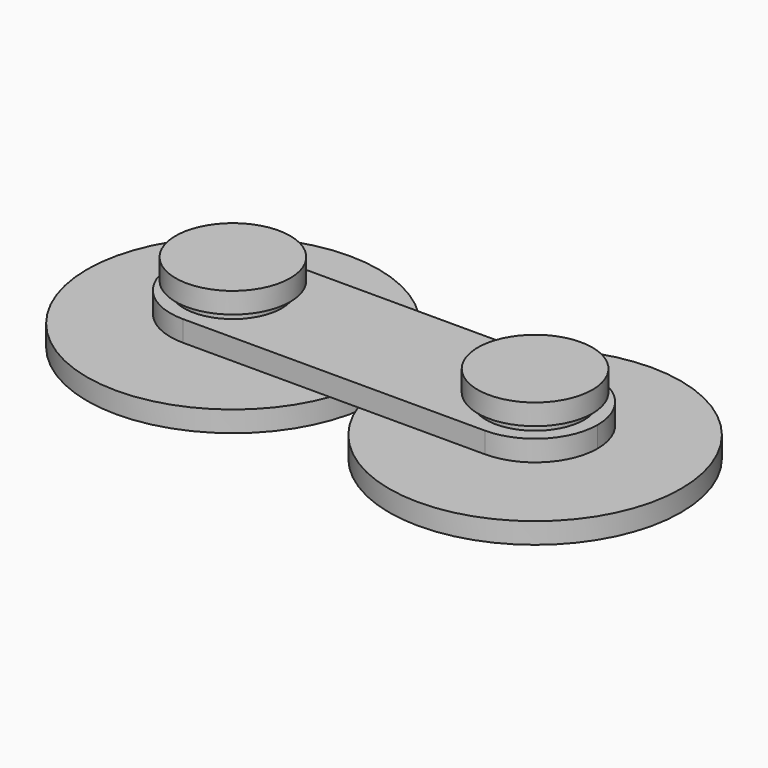
from build123d import *

# Parameters (mm, degrees)
F0_R     = 7
F0_R_2   = 2
F1_DEPTH = 1
F2_DEPTH = 3.8
F4_R     = 2.35
F5_DEPTH = 1
F6_R     = 2.75
F7_DEPTH = 1


with BuildPart() as f1:
    # F0 (on Top) → F1 (new body)
    with BuildSketch(Plane.XY):
        with Locations((-7.25, 0)):
            Circle(F0_R)
        with Locations((-7.25, 0)):
            Circle(F0_R_2, mode=Mode.SUBTRACT)
    extrude(amount=F1_DEPTH)

    # F0 (on Top) → F2 (join)
    with BuildSketch(Plane.XY):
        with Locations((-7.25, 0)):
            Circle(F0_R_2)
    extrude(amount=F2_DEPTH)

    # F6 (on face) → F7 (join)
    with BuildSketch(Plane.XY.offset(3.8)):
        with Locations((-7.25, 0)):
            Circle(F6_R)
    extrude(amount=-F7_DEPTH)


with BuildPart() as f1b:
    # F0 (on Top) → F1, piece 2 (new body)
    with BuildSketch(Plane.XY):
        with Locations((7.25, 0)):
            Circle(F0_R)
        with Locations((7.25, 0)):
            Circle(F0_R_2, mode=Mode.SUBTRACT)
    extrude(amount=F1_DEPTH)

    # F0 (on Top) → F2, piece 2 (join)
    with BuildSketch(Plane.XY):
        with Locations((7.25, 0)):
            Circle(F0_R_2)
    extrude(amount=F2_DEPTH)

    # F6 (on face) → F7, piece 2 (join)
    with BuildSketch(Plane.XY.offset(3.8)):
        with Locations((7.25, 0)):
            Circle(F6_R)
    extrude(amount=-F7_DEPTH)


with BuildPart() as f5:
    # F4 (on offset) → F5 (new body)
    with BuildSketch(Plane.XY.offset(1.4)):
        with BuildLine():
            ThreePointArc((-7.25, -3), (-5.1286796564, -2.1213203436), (-4.25, 0))
            ThreePointArc((-4.25, 0), (-5.1286796564, 2.1213203436), (-7.25, 3))
            ThreePointArc((-7.25, 3), (-10.25, 0), (-7.25, -3))
        make_face()
        with Locations((-7.25, 0)):
            Circle(F4_R, mode=Mode.SUBTRACT)
        with BuildLine():
            ThreePointArc((-7.25, 3), (-5.1286796564, 2.1213203436), (-4.25, 0))
            ThreePointArc((-4.25, 0), (-5.1286796564, -2.1213203436), (-7.25, -3))
            Line((-7.25, -3), (7.25, -3))
            ThreePointArc((7.25, -3), (4.25, 0), (7.25, 3))
            Line((7.25, 3), (-7.25, 3))
        make_face()
        with BuildLine():
            ThreePointArc((10.25, 0), (9.3713203436, 2.1213203436), (7.25, 3))
            ThreePointArc((7.25, 3), (4.25, 0), (7.25, -3))
            ThreePointArc((7.25, -3), (9.3713203436, -2.1213203436), (10.25, 0))
        make_face()
        with Locations((7.25, 0)):
            Circle(F4_R, mode=Mode.SUBTRACT)
    extrude(amount=F5_DEPTH)


solid = Compound([f1.part, f1b.part, f5.part])
